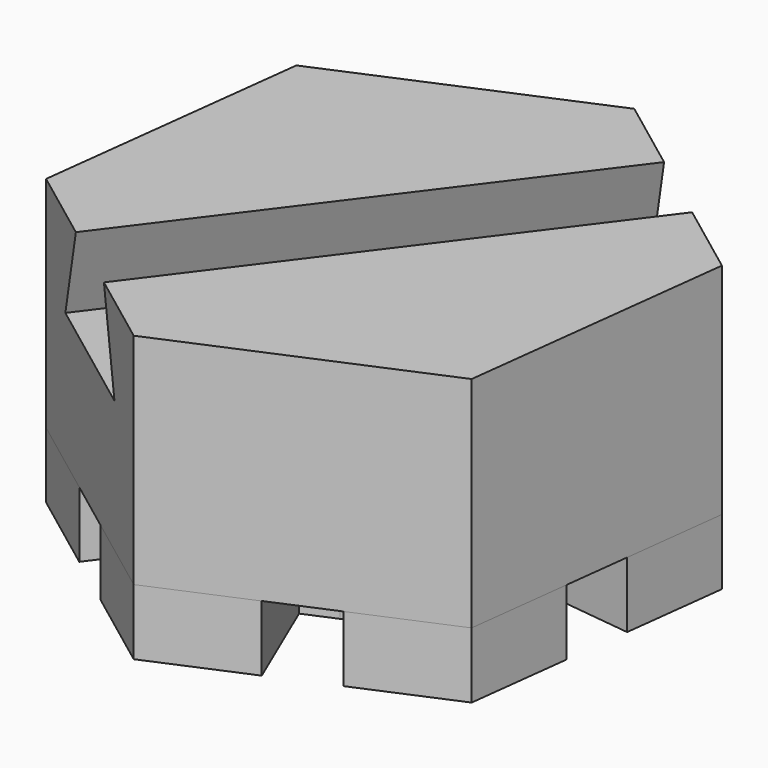
from build123d import *

# Parameters (mm, degrees)
F1_DEPTH = 3
F3_DEPTH = 5
F5_DEPTH = 5
F7_DEPTH = 27.651635
F8_R     = 1.4
F9_DEPTH = 6


with BuildPart() as f1:
    # F0 (on Top) → F1 (new body)
    with BuildSketch(Plane.XY):
        Polygon((5.283907, 9.568716), (1.495191, 12.410254), (-2.859099, 10.550288), (-0.90712, 5.980591), (-2.300426, 5.38543), (-3.689196, 4.782179), (-5.644798, 9.360356), (-10, 7.5), (-10.566367, 2.799092), (-5.632904, 2.204707), (-5.814132, 0.700488), (-5.986087, -0.803848), (-10.928705, -0.20836), (-11.495191, -4.910254), (-7.707268, -7.751196), (-4.725784, -3.775884), (-3.513707, -4.684942), (-2.296891, -5.586028), (-5.283907, -9.568716), (-1.495191, -12.410254), (2.859099, -10.550288), (0.90712, -5.980591), (2.300426, -5.38543), (3.689196, -4.782179), (5.644798, -9.360356), (10, -7.5), (10.566367, -2.799092), (5.632904, -2.204707), (5.814132, -0.700488), (5.986087, 0.803848), (10.928705, 0.20836), (11.495191, 4.910254), (7.707268, 7.751196), (4.725784, 3.775884), (3.513707, 4.684942), (2.296891, 5.586028), align=None)
    extrude(amount=F1_DEPTH)

    # F2 (on face) → F3 (join)
    with BuildSketch(Plane.XY.offset(3)):
        Polygon((-10, 7.5), (-11.495191, -4.910254), (-1.495191, -12.410254), (10, -7.5), (11.495191, 4.910254), (1.495191, 12.410254), align=None)
        Polygon((-2.296891, -5.586028), (-3.496891, -7.186028), (-5.920251, -5.368507), (-4.725784, -3.775884), align=None, mode=Mode.SUBTRACT)
        Polygon((3.689196, -4.782179), (4.474837, -6.62141), (1.689138, -7.811341), (0.90712, -5.980591), align=None, mode=Mode.SUBTRACT)
        Polygon((5.986087, 0.803848), (7.971728, 0.564618), (7.609389, -2.442834), (5.632904, -2.204707), align=None, mode=Mode.SUBTRACT)
        Polygon((-5.986087, -0.803848), (-7.971728, -0.564618), (-7.609389, 2.442834), (-5.632904, 2.204707), align=None, mode=Mode.SUBTRACT)
        Polygon((-3.689196, 4.782179), (-4.474837, 6.62141), (-1.689138, 7.811341), (-0.90712, 5.980591), align=None, mode=Mode.SUBTRACT)
        Polygon((2.296891, 5.586028), (3.496891, 7.186028), (5.920251, 5.368507), (4.725784, 3.775884), align=None, mode=Mode.SUBTRACT)
    extrude(amount=F3_DEPTH)

    # F4 (on face) → F5 (join)
    with BuildSketch(Plane.XY.offset(8)):
        Polygon((-11.495191, -4.910254), (-1.495191, -12.410254), (10, -7.5), (11.495191, 4.910254), (1.495191, 12.410254), (-10, 7.5), align=None)
    extrude(amount=F5_DEPTH)

    # F6 (on face) → F7 (cut, through all)
    with BuildSketch(Plane(origin=(-6.495191, -8.660254, 0), x_dir=(0.8, -0.6, 0), z_dir=(-0.6, -0.8, 0))):
        Polygon((-3.5, 9), (3.5, 9), (2, 13), (-2, 13), align=None)
    extrude(amount=-F7_DEPTH, mode=Mode.SUBTRACT)

    # F8 (on face) → F9 (cut)
    with BuildSketch(Plane(origin=(0, 0, 0), x_dir=(1, 0, 0), z_dir=(0, 0, -1))):
        Circle(F8_R)
    extrude(amount=-F9_DEPTH, mode=Mode.SUBTRACT)


solid = f1.part
